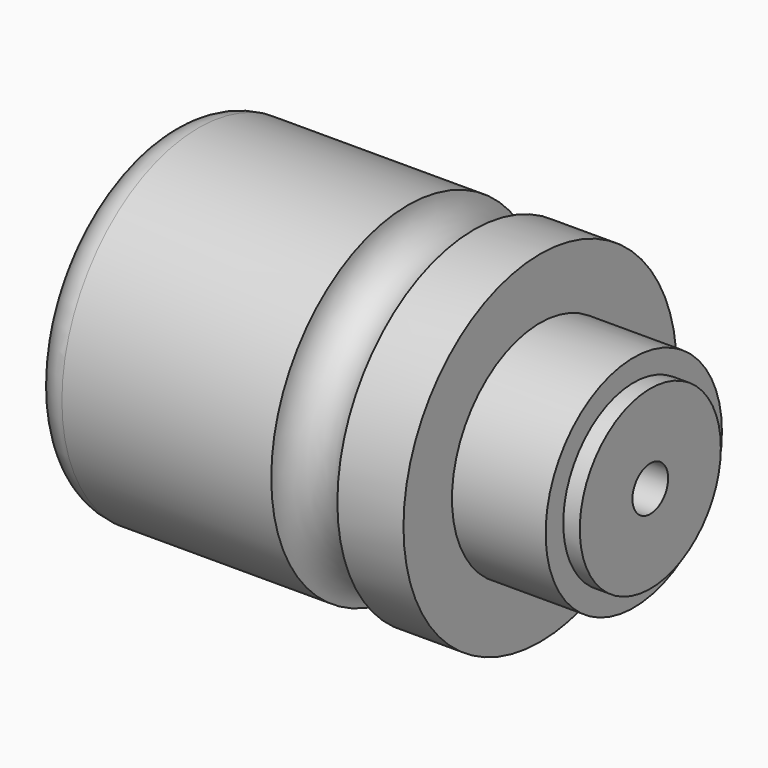
from build123d import *

# Parameters (mm, degrees)
F2_R = 6
F3_R = 6


with BuildPart() as f1:
    # F0 (on Top) → F1 (revolve)
    with BuildSketch(Plane.XY):
        Polygon((0, 31), (0, 0), (88, 0), (88, 16), (85, 16), (85, 20), (68, 20), (68, 31), align=None)
    revolve(axis=Axis((49.862798, 0, 0), (1, 0, 0)))

    # F2
    f2_edges = [f1.edges().sort_by_distance(p)[0] for p in [
        (0, -31, 0),
    ]]
    fillet(f2_edges, radius=F2_R)

    # F3 (on Top) → F4 (revolve, cut)
    with BuildSketch(Plane.XY):
        with Locations((50, 31)):
            Circle(F3_R)
    revolve(axis=Axis((49.862798, 0, 0), (1, 0, 0)), mode=Mode.SUBTRACT)

    # F5 (on Top) → F6 (revolve, cut)
    with BuildSketch(Plane.XY):
        Polygon((0, 25), (0, 0), (88, 0), (88, 4.04958), (30, 4.04958), (30, 14.04958), (22, 14.04958), (22, 18.54958), (15, 18.54958), (15, 12.5), (12, 12.5), (12, 16), (1.5, 16), (1.5, 25), align=None)
    revolve(axis=Axis((49.862798, 0, 0), (1, 0, 0)), mode=Mode.SUBTRACT)


solid = f1.part
